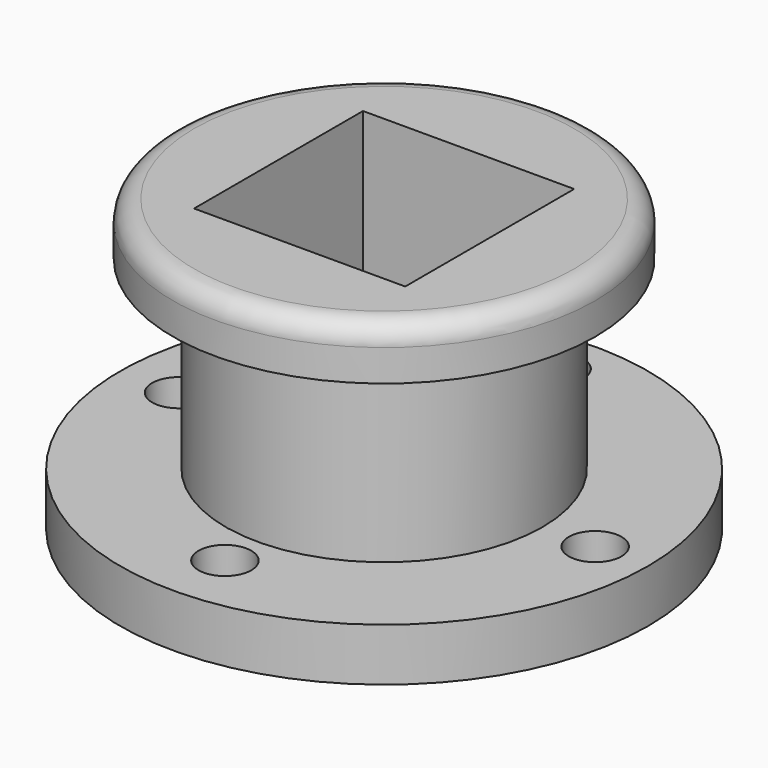
from build123d import *

# Parameters (mm, degrees)
F0_R      = 63.5
F1_DEPTH  = 12.7
F2_R      = 38.1
F3_DEPTH  = 57.15
F4_R      = 50.8
F5_DEPTH  = 12.7
F6_R      = 5.08
F8_R      = 6.35
F9_DEPTH  = 25.4
F10_DEPTH = 25.4
F7_W      = 50.8
F7_H      = 50.8
F11_DEPTH = 127


with BuildPart() as f1:
    # F0 (on Top) → F1 (new body)
    with BuildSketch(Plane.XY):
        Circle(F0_R)
        Circle(F0_R)
    extrude(amount=F1_DEPTH)

    # F2 (on face) → F3 (join)
    with BuildSketch(Plane(origin=(0, 0, 0), x_dir=(1, 0, 0), z_dir=(0, 0, -1))):
        Circle(F2_R)
    extrude(amount=-F3_DEPTH)

    # F4 (on face) → F5 (join)
    with BuildSketch(Plane.XY.offset(57.15)):
        Circle(F4_R)
    extrude(amount=F5_DEPTH)

    # F6
    f6_edges = [f1.edges().sort_by_distance(p)[0] for p in [
        (-50.8, 0, 69.85),
    ]]
    fillet(f6_edges, radius=F6_R)

    # F8 (on face) → F9 (cut)
    with BuildSketch(Plane.XY.offset(12.7)):
        with Locations((-49.443927, 0)):
            Circle(F8_R)
        with Locations((0, -47.860481)):
            Circle(F8_R)
        with Locations((50.774433, 0)):
            Circle(F8_R)
        with Locations((0, 52.007888)):
            Circle(F8_R)
    extrude(amount=-F9_DEPTH, mode=Mode.SUBTRACT)

    # F8 (on face) → F10 (cut)
    with BuildSketch(Plane.XY.offset(12.7)):
        with Locations((-49.443927, 0)):
            Circle(F8_R)
        with Locations((0, -47.860481)):
            Circle(F8_R)
        with Locations((50.774433, 0)):
            Circle(F8_R)
        with Locations((0, 52.007888)):
            Circle(F8_R)
    extrude(amount=-F10_DEPTH, mode=Mode.SUBTRACT)

    # F7 (on face) → F11 (cut)
    with BuildSketch(Plane.XY.offset(69.85)):
        Rectangle(F7_W, F7_H)
    extrude(amount=-F11_DEPTH, mode=Mode.SUBTRACT)


solid = f1.part
